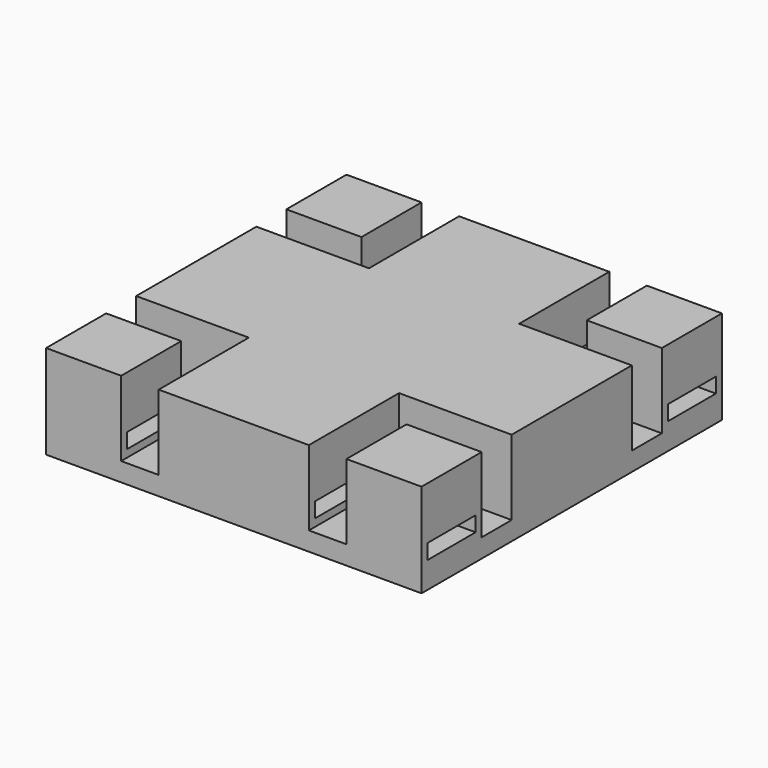
from build123d import *

# Parameters (mm, degrees)
F0_W     = 100
F0_H     = 100
F1_DEPTH = 100
F2_DEPTH = 25
F3_W     = 80
F3_H     = 20
F4_DEPTH = 5000


with BuildPart() as f1:
    # F0 (on Top) → F1 (new body)
    with BuildSketch(Plane.XY):
        Polygon((100, 100), (100, 250), (-100, 250), (-100, 100), (-250, 100), (-250, -100), (-100, -100), (-100, -250), (100, -250), (100, -100), (250, -100), (250, 100), align=None)
        with Locations((-200, -200)):
            Rectangle(F0_W, F0_H)
        with Locations((200, -200)):
            Rectangle(F0_W, F0_H)
        with Locations((200, 200)):
            Rectangle(F0_W, F0_H)
        with Locations((-200, 200)):
            Rectangle(F0_W, F0_H)
    extrude(amount=F1_DEPTH)

    # F0 (on Top) → F2 (join)
    with BuildSketch(Plane.XY):
        with Locations((200, -200)):
            Rectangle(F0_W, F0_H)
        Polygon((250, -150), (250, -100), (100, -100), (100, -250), (150, -250), (150, -150), align=None)
        Polygon((150, 150), (150, 250), (100, 250), (100, 100), (250, 100), (250, 150), align=None)
        with Locations((200, 200)):
            Rectangle(F0_W, F0_H)
        Polygon((100, 100), (100, 250), (-100, 250), (-100, 100), (-250, 100), (-250, -100), (-100, -100), (-100, -250), (100, -250), (100, -100), (250, -100), (250, 100), align=None)
        Polygon((-100, -100), (-250, -100), (-250, -150), (-150, -150), (-150, -250), (-100, -250), align=None)
        with Locations((-200, -200)):
            Rectangle(F0_W, F0_H)
        Polygon((-100, 100), (-100, 250), (-150, 250), (-150, 150), (-250, 150), (-250, 100), align=None)
        with Locations((-200, 200)):
            Rectangle(F0_W, F0_H)
    extrude(amount=-F2_DEPTH)

    # F3 (on face) → F4 (cut)
    with BuildSketch(Plane.YZ.offset(250)):
        with Locations((-200, 20)):
            Rectangle(F3_W, F3_H)
        with Locations((200, 20)):
            Rectangle(F3_W, F3_H)
    extrude(amount=-F4_DEPTH, mode=Mode.SUBTRACT)


solid = f1.part
